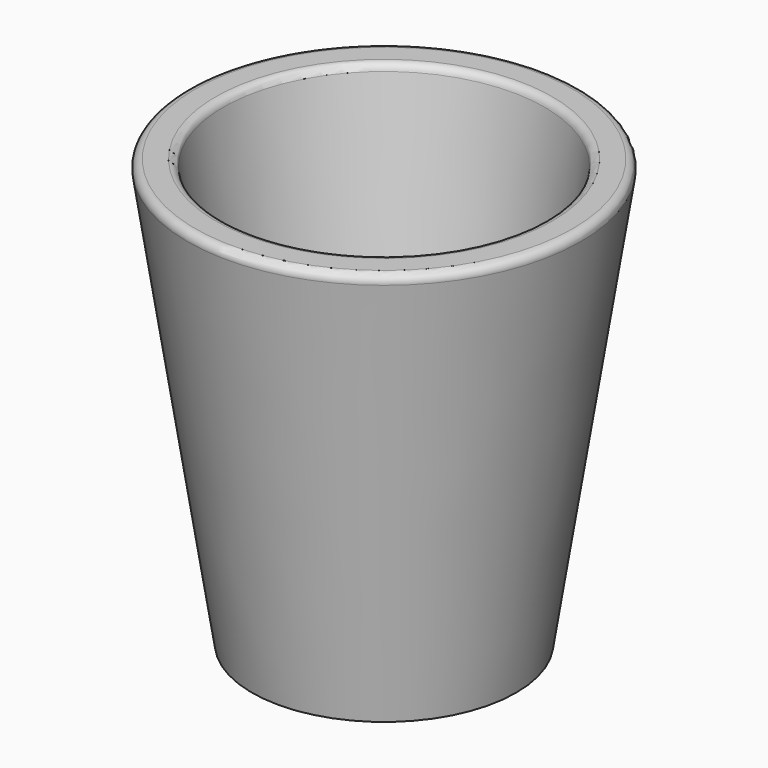
from build123d import *

# Parameters (mm, degrees)
F2_R     = 1.27
F4_R     = 0.381
F6_COUNT = 12


with BuildPart() as f1:
    # F0 (on Front) → F1 (revolve)
    with BuildSketch(Plane.XZ):
        Polygon((16.51, 7.9185457828), (0, 7.9185457828), (0, 1.5239998465), (21.4090791405, 1.5239998465), (32.0651307702, 70.6778279522), (26.180703262, 70.6778279522), align=None)
    revolve(axis=Axis((0, 0, 40.3369123044), (0, 0, -1)))

    # F2
    f2_edges = [f1.edges().sort_by_distance(p)[0] for p in [
        (-32.065131, 0, 70.677828),
        (-26.180703, 0, 70.677828),
    ]]
    fillet(f2_edges, radius=F2_R)


with BuildPart() as f5:
    # F5: sweep along a path in F3
    with BuildLine(Plane.XZ) as f5_path:
        Line((18.7959969044, 0), (29.0749822346, 63.6387893228))
        Line((29.0749822346, 63.6387893228), (26.9044620273, 63.9893733865))
        Line((26.9044620273, 63.9893733865), (18.3781796423, 11.2018393089))
        Line((18.3781796423, 11.2018393089), (16.0276555744, 11.2018393089))
    # F4 (on Top) → F5 (sweep)
    with BuildSketch(Plane.XY):
        with Locations((18.7987424433, 0)):
            Circle(F4_R)
    sweep(path=f5_path.line, transition=Transition.RIGHT)


with BuildPart() as f6_1:
    # F6: instance of F5
    add(f5.part.rotate(Axis((0, 0, 40.3369123044), (0, 0, 1)), 1 * 360 / F6_COUNT))


with BuildPart() as f6_2:
    # F6: instance of F5
    add(f5.part.rotate(Axis((0, 0, 40.3369123044), (0, 0, 1)), 2 * 360 / F6_COUNT))


with BuildPart() as f6_3:
    # F6: instance of F5
    add(f5.part.rotate(Axis((0, 0, 40.3369123044), (0, 0, 1)), 3 * 360 / F6_COUNT))


with BuildPart() as f6_4:
    # F6: instance of F5
    add(f5.part.rotate(Axis((0, 0, 40.3369123044), (0, 0, 1)), 4 * 360 / F6_COUNT))


with BuildPart() as f6_5:
    # F6: instance of F5
    add(f5.part.rotate(Axis((0, 0, 40.3369123044), (0, 0, 1)), 5 * 360 / F6_COUNT))


with BuildPart() as f6_6:
    # F6: instance of F5
    add(f5.part.rotate(Axis((0, 0, 40.3369123044), (0, 0, 1)), 6 * 360 / F6_COUNT))


with BuildPart() as f6_7:
    # F6: instance of F5
    add(f5.part.rotate(Axis((0, 0, 40.3369123044), (0, 0, 1)), 7 * 360 / F6_COUNT))


with BuildPart() as f6_8:
    # F6: instance of F5
    add(f5.part.rotate(Axis((0, 0, 40.3369123044), (0, 0, 1)), 8 * 360 / F6_COUNT))


with BuildPart() as f6_9:
    # F6: instance of F5
    add(f5.part.rotate(Axis((0, 0, 40.3369123044), (0, 0, 1)), 9 * 360 / F6_COUNT))


with BuildPart() as f6_10:
    # F6: instance of F5
    add(f5.part.rotate(Axis((0, 0, 40.3369123044), (0, 0, 1)), 10 * 360 / F6_COUNT))


with BuildPart() as f6_11:
    # F6: instance of F5
    add(f5.part.rotate(Axis((0, 0, 40.3369123044), (0, 0, 1)), 11 * 360 / F6_COUNT))


with BuildPart() as f1_1:
    add(f1.part)

    # F7: cut F6_7, F6_6, F6_5, F6_8, F6_4, F6_9, F6_10, F6_3, F5, F6_1, F6_11, F6_2
    add(f6_7.part, mode=Mode.SUBTRACT)
    add(f6_6.part, mode=Mode.SUBTRACT)
    add(f6_5.part, mode=Mode.SUBTRACT)
    add(f6_8.part, mode=Mode.SUBTRACT)
    add(f6_4.part, mode=Mode.SUBTRACT)
    add(f6_9.part, mode=Mode.SUBTRACT)
    add(f6_10.part, mode=Mode.SUBTRACT)
    add(f6_3.part, mode=Mode.SUBTRACT)
    add(f5.part, mode=Mode.SUBTRACT)
    add(f6_1.part, mode=Mode.SUBTRACT)
    add(f6_11.part, mode=Mode.SUBTRACT)
    add(f6_2.part, mode=Mode.SUBTRACT)


solid = f1_1.part
